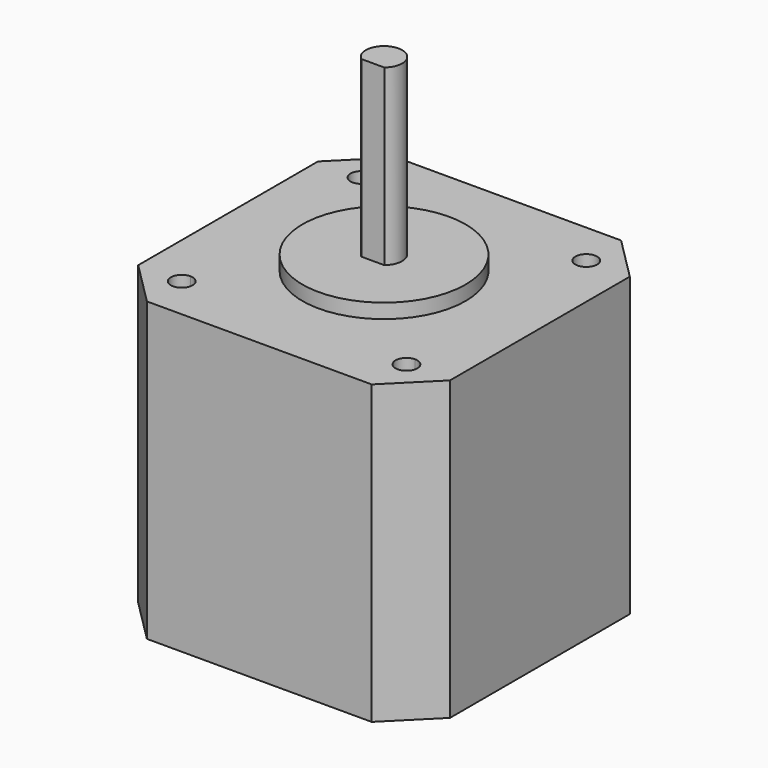
from build123d import *

# Parameters (mm, degrees)
F0_W     = 43.0059846
F0_H     = 43.0059846
F1_DEPTH = 40.981249
F3_DEPTH = 2
F5_DEPTH = 5
F7_DEPTH = 24
F8_SIZE  = 6.0030106


with BuildPart() as f1:
    # F0 (on Top) → F1 (new body)
    with BuildSketch(Plane.XY):
        with Locations((21.5029923, 21.5029923)):
            Rectangle(F0_W, F0_H)
    extrude(amount=F1_DEPTH)

    # F2 (on face) → F3 (join)
    with BuildSketch(Plane.XY.offset(40.981249)):
        with BuildLine():
            ThreePointArc((21.5029923, 32.7559924), (10.2499922, 21.5029923), (21.5029923, 10.2499922))
            Line((21.5029923, 10.2499922), (21.5029923, 32.7559924))
        make_face()
        with BuildLine():
            Line((21.5029923, 32.7559924), (21.5029923, 10.2499922))
            ThreePointArc((21.5029923, 10.2499922), (29.4600649794, 13.5459196206), (32.7559924, 21.5029923))
            ThreePointArc((32.7559924, 21.5029923), (29.4600649794, 29.4600649794), (21.5029923, 32.7559924))
        make_face()
    extrude(amount=F3_DEPTH)

    # F4 (on face) → F5 (cut)
    with BuildSketch(Plane.XY.offset(40.981249)):
        with BuildLine():
            ThreePointArc((38.5029837, 37.0029867), (35.9423286495, 38.0636447505), (37.0029867, 35.5029897))
            ThreePointArc((37.0029867, 35.5029897), (38.0636447505, 35.9423286495), (38.5029837, 37.0029867))
        make_face()
        with BuildLine():
            ThreePointArc((38.5029837, 6.0029979), (38.0636447505, 7.0636559505), (37.0029867, 7.5029949))
            ThreePointArc((37.0029867, 7.5029949), (35.9423286495, 4.9423398495), (38.5029837, 6.0029979))
        make_face()
        with BuildLine():
            ThreePointArc((7.5029949, 37.0029867), (4.9423398495, 38.0636447505), (6.0029979, 35.5029897))
            ThreePointArc((6.0029979, 35.5029897), (7.0636559505, 35.9423286495), (7.5029949, 37.0029867))
        make_face()
        with BuildLine():
            ThreePointArc((7.5029949, 6.0029979), (7.0636559505, 7.0636559505), (6.0029979, 7.5029949))
            ThreePointArc((6.0029979, 7.5029949), (4.9423398495, 4.9423398495), (7.5029949, 6.0029979))
        make_face()
    extrude(amount=-F5_DEPTH, mode=Mode.SUBTRACT)

    # F6 (on face) → F7 (join)
    with BuildSketch(Plane.XY.offset(42.981249)):
        with BuildLine():
            Line((19.9154923, 19.5717119604), (23.0904923, 19.5717119604))
            ThreePointArc((23.0904923, 19.5717119604), (21.5029923, 24.0029923), (19.9154923, 19.5717119604))
        make_face()
    extrude(amount=F7_DEPTH)

    # F8
    f8_edges = [f1.edges().sort_by_distance(p)[0] for p in [
        (0, 43.005985, 20.490624),
        (0, 0, 20.490624),
        (43.005985, 0, 20.490624),
        (43.005985, 43.005985, 20.490624),
    ]]
    chamfer(f8_edges, length=F8_SIZE)


solid = f1.part
